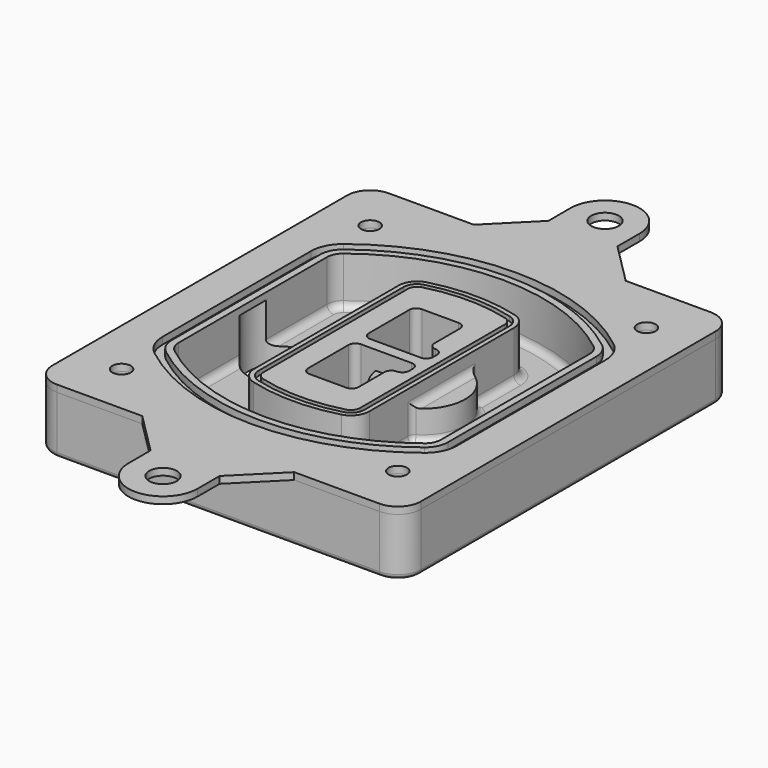
from build123d import *

# Parameters (mm, degrees)
F0_R      = 4
F1_DEPTH  = 25
F2_DEPTH  = 3
F3_DEPTH  = 18
F5_DEPTH  = 21
F6_DEPTH  = 2
F8_DEPTH  = 20
F9_DEPTH  = 16
F10_DEPTH = 25
F7_R      = 6
F7_R_2    = 4
F11_DEPTH = 6
F13_DEPTH = 9
F14_R     = 3
F15_R     = 2
F0_R_2    = 6
F16_DEPTH = 3


with BuildPart() as f1:
    # F0 (on Top) → F1 (new body)
    with BuildSketch(Plane.XY):
        with BuildLine():
            ThreePointArc((-80, -80), (-77.0710678119, -87.0710678119), (-70, -90))
            Line((-70, -90), (-33, -90))
            Line((-33, -90), (33, -90))
            Line((33, -90), (70, -90))
            ThreePointArc((70, -90), (77.0710678119, -87.0710678119), (80, -80))
            Line((80, -80), (80, 80))
            ThreePointArc((80, 80), (77.0710678119, 87.0710678119), (70, 90))
            Line((70, 90), (33, 90))
            Line((33, 90), (-33, 90))
            Line((-33, 90), (-70, 90))
            ThreePointArc((-70, 90), (-77.0710678119, 87.0710678119), (-80, 80))
            Line((-80, 80), (-80, -80))
        make_face()
        with Locations((-60, -67.5)):
            Circle(F0_R, mode=Mode.SUBTRACT)
        with Locations((60, -67.5)):
            Circle(F0_R, mode=Mode.SUBTRACT)
        with Locations((-60, 67.5)):
            Circle(F0_R, mode=Mode.SUBTRACT)
        with BuildLine():
            ThreePointArc((-64, 40.2934422872), (-62.5820384798, 46.4328484224), (-58.6153846154, 51.3286200352))
            ThreePointArc((-58.6153846154, 51.3286200352), (0, 71.5), (58.6153846154, 51.3286200352))
            ThreePointArc((58.6153846154, 51.3286200352), (62.5820384798, 46.4328484224), (64, 40.2934422872))
            Line((64, 40.2934422872), (64, -40.2934422872))
            ThreePointArc((64, -40.2934422872), (62.5820384798, -46.4328484224), (58.6153846154, -51.3286200352))
            ThreePointArc((58.6153846154, -51.3286200352), (0, -71.5), (-58.6153846154, -51.3286200352))
            ThreePointArc((-58.6153846154, -51.3286200352), (-62.5820384798, -46.4328484224), (-64, -40.2934422872))
            Line((-64, -40.2934422872), (-64, 40.2934422872))
        make_face(mode=Mode.SUBTRACT)
        with Locations((60, 67.5)):
            Circle(F0_R, mode=Mode.SUBTRACT)
        with BuildLine():
            ThreePointArc((58.6153846154, 51.3286200352), (0, 71.5), (-58.6153846154, 51.3286200352))
            ThreePointArc((-58.6153846154, 51.3286200352), (-62.5820384798, 46.4328484224), (-64, 40.2934422872))
            Line((-64, 40.2934422872), (-64, -40.2934422872))
            ThreePointArc((-64, -40.2934422872), (-62.5820384798, -46.4328484224), (-58.6153846154, -51.3286200352))
            ThreePointArc((-58.6153846154, -51.3286200352), (0, -71.5), (58.6153846154, -51.3286200352))
            ThreePointArc((58.6153846154, -51.3286200352), (62.5820384798, -46.4328484224), (64, -40.2934422872))
            Line((64, -40.2934422872), (64, 40.2934422872))
            ThreePointArc((64, 40.2934422872), (62.5820384798, 46.4328484224), (58.6153846154, 51.3286200352))
        make_face()
        with BuildLine():
            Line((-60, -40.2934422872), (-60, 40.2934422872))
            ThreePointArc((-60, 40.2934422872), (-58.9871703427, 44.6787323838), (-56.1538461538, 48.1757121072))
            ThreePointArc((-56.1538461538, 48.1757121072), (0, 67.5), (56.1538461538, 48.1757121072))
            ThreePointArc((56.1538461538, 48.1757121072), (58.9871703427, 44.6787323838), (60, 40.2934422872))
            Line((60, 40.2934422872), (60, -40.2934422872))
            ThreePointArc((60, -40.2934422872), (58.9871703427, -44.6787323838), (56.1538461538, -48.1757121072))
            ThreePointArc((56.1538461538, -48.1757121072), (0, -67.5), (-56.1538461538, -48.1757121072))
            ThreePointArc((-56.1538461538, -48.1757121072), (-58.9871703427, -44.6787323838), (-60, -40.2934422872))
        make_face(mode=Mode.SUBTRACT)
        with BuildLine():
            ThreePointArc((-56.1538461538, 48.1757121072), (-58.9871703427, 44.6787323838), (-60, 40.2934422872))
            Line((-60, 40.2934422872), (-60, -40.2934422872))
            ThreePointArc((-60, -40.2934422872), (-58.9871703427, -44.6787323838), (-56.1538461538, -48.1757121072))
            ThreePointArc((-56.1538461538, -48.1757121072), (0, -67.5), (56.1538461538, -48.1757121072))
            ThreePointArc((56.1538461538, -48.1757121072), (58.9871703427, -44.6787323838), (60, -40.2934422872))
            Line((60, -40.2934422872), (60, 40.2934422872))
            ThreePointArc((60, 40.2934422872), (58.9871703427, 44.6787323838), (56.1538461538, 48.1757121072))
            ThreePointArc((56.1538461538, 48.1757121072), (0, 67.5), (-56.1538461538, 48.1757121072))
        make_face()
        with BuildLine():
            ThreePointArc((54.3076923077, 45.8110311612), (56.2910192399, 43.3631453548), (57, 40.2934422872))
            Line((57, 40.2934422872), (57, -40.2934422872))
            ThreePointArc((57, -40.2934422872), (56.2910192399, -43.3631453548), (54.3076923077, -45.8110311612))
            ThreePointArc((54.3076923077, -45.8110311612), (0, -64.5), (-54.3076923077, -45.8110311612))
            ThreePointArc((-54.3076923077, -45.8110311612), (-56.2910192399, -43.3631453548), (-57, -40.2934422872))
            Line((-57, -40.2934422872), (-57, 40.2934422872))
            ThreePointArc((-57, 40.2934422872), (-56.2910192399, 43.3631453548), (-54.3076923077, 45.8110311612))
            ThreePointArc((-54.3076923077, 45.8110311612), (0, 64.5), (54.3076923077, 45.8110311612))
        make_face(mode=Mode.SUBTRACT)
        with BuildLine():
            Line((57, -40.2934422872), (57, 40.2934422872))
            ThreePointArc((57, 40.2934422872), (56.2910192399, 43.3631453548), (54.3076923077, 45.8110311612))
            ThreePointArc((54.3076923077, 45.8110311612), (0, 64.5), (-54.3076923077, 45.8110311612))
            ThreePointArc((-54.3076923077, 45.8110311612), (-56.2910192399, 43.3631453548), (-57, 40.2934422872))
            Line((-57, 40.2934422872), (-57, -40.2934422872))
            ThreePointArc((-57, -40.2934422872), (-56.2910192399, -43.3631453548), (-54.3076923077, -45.8110311612))
            ThreePointArc((-54.3076923077, -45.8110311612), (0, -64.5), (54.3076923077, -45.8110311612))
            ThreePointArc((54.3076923077, -45.8110311612), (56.2910192399, -43.3631453548), (57, -40.2934422872))
        make_face()
    extrude(amount=-F1_DEPTH)

    # F0 (on Top) → F2 (join)
    with BuildSketch(Plane.XY):
        with BuildLine():
            ThreePointArc((-56.1538461538, 48.1757121072), (-58.9871703427, 44.6787323838), (-60, 40.2934422872))
            Line((-60, 40.2934422872), (-60, -40.2934422872))
            ThreePointArc((-60, -40.2934422872), (-58.9871703427, -44.6787323838), (-56.1538461538, -48.1757121072))
            ThreePointArc((-56.1538461538, -48.1757121072), (0, -67.5), (56.1538461538, -48.1757121072))
            ThreePointArc((56.1538461538, -48.1757121072), (58.9871703427, -44.6787323838), (60, -40.2934422872))
            Line((60, -40.2934422872), (60, 40.2934422872))
            ThreePointArc((60, 40.2934422872), (58.9871703427, 44.6787323838), (56.1538461538, 48.1757121072))
            ThreePointArc((56.1538461538, 48.1757121072), (0, 67.5), (-56.1538461538, 48.1757121072))
        make_face()
        with BuildLine():
            ThreePointArc((54.3076923077, 45.8110311612), (56.2910192399, 43.3631453548), (57, 40.2934422872))
            Line((57, 40.2934422872), (57, -40.2934422872))
            ThreePointArc((57, -40.2934422872), (56.2910192399, -43.3631453548), (54.3076923077, -45.8110311612))
            ThreePointArc((54.3076923077, -45.8110311612), (0, -64.5), (-54.3076923077, -45.8110311612))
            ThreePointArc((-54.3076923077, -45.8110311612), (-56.2910192399, -43.3631453548), (-57, -40.2934422872))
            Line((-57, -40.2934422872), (-57, 40.2934422872))
            ThreePointArc((-57, 40.2934422872), (-56.2910192399, 43.3631453548), (-54.3076923077, 45.8110311612))
            ThreePointArc((-54.3076923077, 45.8110311612), (0, 64.5), (54.3076923077, 45.8110311612))
        make_face(mode=Mode.SUBTRACT)
    extrude(amount=F2_DEPTH)

    # F0 (on Top) → F3 (cut)
    with BuildSketch(Plane.XY):
        with BuildLine():
            Line((57, -40.2934422872), (57, 40.2934422872))
            ThreePointArc((57, 40.2934422872), (56.2910192399, 43.3631453548), (54.3076923077, 45.8110311612))
            ThreePointArc((54.3076923077, 45.8110311612), (0, 64.5), (-54.3076923077, 45.8110311612))
            ThreePointArc((-54.3076923077, 45.8110311612), (-56.2910192399, 43.3631453548), (-57, 40.2934422872))
            Line((-57, 40.2934422872), (-57, -40.2934422872))
            ThreePointArc((-57, -40.2934422872), (-56.2910192399, -43.3631453548), (-54.3076923077, -45.8110311612))
            ThreePointArc((-54.3076923077, -45.8110311612), (0, -64.5), (54.3076923077, -45.8110311612))
            ThreePointArc((54.3076923077, -45.8110311612), (56.2910192399, -43.3631453548), (57, -40.2934422872))
        make_face()
    extrude(amount=-F3_DEPTH, mode=Mode.SUBTRACT)

    # F4 (on face) → F5 (join, through all)
    with BuildSketch(Plane.XY.offset(3)):
        with BuildLine():
            ThreePointArc((-25, -39.2465276821), (-23.3511545998, -44.1109737193), (-19.0842911877, -46.9702398883))
            ThreePointArc((-19.0842911877, -46.9702398883), (0, -49.5), (19.0842911877, -46.9702398883))
            ThreePointArc((19.0842911877, -46.9702398883), (23.3511545998, -44.1109737193), (25, -39.2465276821))
            Line((25, -39.2465276821), (25, 39.2465276821))
            ThreePointArc((25, 39.2465276821), (23.3511545998, 44.1109737193), (19.0842911877, 46.9702398883))
            ThreePointArc((19.0842911877, 46.9702398883), (0, 49.5), (-19.0842911877, 46.9702398883))
            ThreePointArc((-19.0842911877, 46.9702398883), (-23.3511545998, 44.1109737193), (-25, 39.2465276821))
            Line((-25, 39.2465276821), (-25, -39.2465276821))
        make_face()
        with BuildLine():
            ThreePointArc((18.5632183908, 45.0393118368), (21.7633659499, 42.89486221), (23, 39.2465276821))
            Line((23, 39.2465276821), (23, -39.2465276821))
            ThreePointArc((23, -39.2465276821), (21.7633659499, -42.89486221), (18.5632183908, -45.0393118368))
            ThreePointArc((18.5632183908, -45.0393118368), (0, -47.5), (-18.5632183908, -45.0393118368))
            ThreePointArc((-18.5632183908, -45.0393118368), (-21.7633659499, -42.89486221), (-23, -39.2465276821))
            Line((-23, -39.2465276821), (-23, 39.2465276821))
            ThreePointArc((-23, 39.2465276821), (-21.7633659499, 42.89486221), (-18.5632183908, 45.0393118368))
            ThreePointArc((-18.5632183908, 45.0393118368), (0, 47.5), (18.5632183908, 45.0393118368))
        make_face(mode=Mode.SUBTRACT)
        with BuildLine():
            Line((23, -39.2465276821), (23, 39.2465276821))
            ThreePointArc((23, 39.2465276821), (21.7633659499, 42.89486221), (18.5632183908, 45.0393118368))
            ThreePointArc((18.5632183908, 45.0393118368), (0, 47.5), (-18.5632183908, 45.0393118368))
            ThreePointArc((-18.5632183908, 45.0393118368), (-21.7633659499, 42.89486221), (-23, 39.2465276821))
            Line((-23, 39.2465276821), (-23, -39.2465276821))
            ThreePointArc((-23, -39.2465276821), (-21.7633659499, -42.89486221), (-18.5632183908, -45.0393118368))
            ThreePointArc((-18.5632183908, -45.0393118368), (0, -47.5), (18.5632183908, -45.0393118368))
            ThreePointArc((18.5632183908, -45.0393118368), (21.7633659499, -42.89486221), (23, -39.2465276821))
        make_face()
        with BuildLine():
            ThreePointArc((18.0421455939, 43.1083837852), (20.1755772999, 41.6787507007), (21, 39.2465276821))
            Line((21, 39.2465276821), (21, -39.2465276821))
            ThreePointArc((21, -39.2465276821), (20.1755772999, -41.6787507007), (18.0421455939, -43.1083837852))
            ThreePointArc((18.0421455939, -43.1083837852), (0, -45.5), (-18.0421455939, -43.1083837852))
            ThreePointArc((-18.0421455939, -43.1083837852), (-20.1755772999, -41.6787507007), (-21, -39.2465276821))
            Line((-21, -39.2465276821), (-21, 39.2465276821))
            ThreePointArc((-21, 39.2465276821), (-20.1755772999, 41.6787507007), (-18.0421455939, 43.1083837852))
            ThreePointArc((-18.0421455939, 43.1083837852), (0, 45.5), (18.0421455939, 43.1083837852))
        make_face(mode=Mode.SUBTRACT)
        with BuildLine():
            Line((21, -39.2465276821), (21, 39.2465276821))
            ThreePointArc((21, 39.2465276821), (20.1755772999, 41.6787507007), (18.0421455939, 43.1083837852))
            ThreePointArc((18.0421455939, 43.1083837852), (0, 45.5), (-18.0421455939, 43.1083837852))
            ThreePointArc((-18.0421455939, 43.1083837852), (-20.1755772999, 41.6787507007), (-21, 39.2465276821))
            Line((-21, 39.2465276821), (-21, -39.2465276821))
            ThreePointArc((-21, -39.2465276821), (-20.1755772999, -41.6787507007), (-18.0421455939, -43.1083837852))
            ThreePointArc((-18.0421455939, -43.1083837852), (0, -45.5), (18.0421455939, -43.1083837852))
            ThreePointArc((18.0421455939, -43.1083837852), (20.1755772999, -41.6787507007), (21, -39.2465276821))
        make_face()
        with BuildLine():
            Line((-8, -2.5), (14, -2.5))
            ThreePointArc((14, -2.5), (16.1213203436, -3.3786796564), (17, -5.5))
            Line((17, -5.5), (17, -7.5))
            ThreePointArc((17, -7.5), (16.1213203436, -9.6213203436), (14, -10.5))
            ThreePointArc((14, -10.5), (11.8786796564, -11.3786796564), (11, -13.5))
            Line((11, -13.5), (11, -27.5))
            ThreePointArc((11, -27.5), (10.1213203436, -29.6213203436), (8, -30.5))
            Line((8, -30.5), (-8, -30.5))
            ThreePointArc((-8, -30.5), (-10.1213203436, -29.6213203436), (-11, -27.5))
            Line((-11, -27.5), (-11, -5.5))
            ThreePointArc((-11, -5.5), (-10.1213203436, -3.3786796564), (-8, -2.5))
        make_face(mode=Mode.SUBTRACT)
        with BuildLine():
            ThreePointArc((-8, 2.5), (-10.1213203436, 3.3786796564), (-11, 5.5))
            Line((-11, 5.5), (-11, 27.5))
            ThreePointArc((-11, 27.5), (-10.1213203436, 29.6213203436), (-8, 30.5))
            Line((-8, 30.5), (8, 30.5))
            ThreePointArc((8, 30.5), (10.1213203436, 29.6213203436), (11, 27.5))
            Line((11, 27.5), (11, 13.5))
            ThreePointArc((11, 13.5), (11.8786796564, 11.3786796564), (14, 10.5))
            ThreePointArc((14, 10.5), (16.1213203436, 9.6213203436), (17, 7.5))
            Line((17, 7.5), (17, 5.5))
            ThreePointArc((17, 5.5), (16.1213203436, 3.3786796564), (14, 2.5))
            Line((14, 2.5), (-8, 2.5))
        make_face(mode=Mode.SUBTRACT)
    extrude(amount=-F5_DEPTH)

    # F4 (on face) → F6 (cut)
    with BuildSketch(Plane.XY.offset(3)):
        with BuildLine():
            Line((23, -39.2465276821), (23, 39.2465276821))
            ThreePointArc((23, 39.2465276821), (21.7633659499, 42.89486221), (18.5632183908, 45.0393118368))
            ThreePointArc((18.5632183908, 45.0393118368), (0, 47.5), (-18.5632183908, 45.0393118368))
            ThreePointArc((-18.5632183908, 45.0393118368), (-21.7633659499, 42.89486221), (-23, 39.2465276821))
            Line((-23, 39.2465276821), (-23, -39.2465276821))
            ThreePointArc((-23, -39.2465276821), (-21.7633659499, -42.89486221), (-18.5632183908, -45.0393118368))
            ThreePointArc((-18.5632183908, -45.0393118368), (0, -47.5), (18.5632183908, -45.0393118368))
            ThreePointArc((18.5632183908, -45.0393118368), (21.7633659499, -42.89486221), (23, -39.2465276821))
        make_face()
        with BuildLine():
            ThreePointArc((18.0421455939, 43.1083837852), (20.1755772999, 41.6787507007), (21, 39.2465276821))
            Line((21, 39.2465276821), (21, -39.2465276821))
            ThreePointArc((21, -39.2465276821), (20.1755772999, -41.6787507007), (18.0421455939, -43.1083837852))
            ThreePointArc((18.0421455939, -43.1083837852), (0, -45.5), (-18.0421455939, -43.1083837852))
            ThreePointArc((-18.0421455939, -43.1083837852), (-20.1755772999, -41.6787507007), (-21, -39.2465276821))
            Line((-21, -39.2465276821), (-21, 39.2465276821))
            ThreePointArc((-21, 39.2465276821), (-20.1755772999, 41.6787507007), (-18.0421455939, 43.1083837852))
            ThreePointArc((-18.0421455939, 43.1083837852), (0, 45.5), (18.0421455939, 43.1083837852))
        make_face(mode=Mode.SUBTRACT)
    extrude(amount=-F6_DEPTH, mode=Mode.SUBTRACT)

    # F7 (on face) → F8 (join)
    with BuildSketch(Plane(origin=(0, 0, -25), x_dir=(1, 0, 0), z_dir=(0, 0, -1))):
        with BuildLine():
            ThreePointArc((3.28842436, 0), (16.7567035675, 13.4682792075), (30.224982775, 0))
            Line((30.224982775, 0), (35.224982775, 0))
            ThreePointArc((35.224982775, 0), (16.7567035675, 18.4682792075), (-1.71157564, 0))
            Line((-1.71157564, 0), (3.28842436, 0))
        make_face()
        with BuildLine():
            Line((3.28842436, 0), (30.224982775, 0))
            ThreePointArc((30.224982775, 0), (16.7567035675, 13.4682792075), (3.28842436, 0))
        make_face()
        with BuildLine():
            ThreePointArc((3.28842436, 0), (16.7567035675, -13.4682792075), (30.224982775, 0))
            Line((30.224982775, 0), (3.28842436, 0))
        make_face()
        with BuildLine():
            Line((35.224982775, 0), (30.224982775, 0))
            ThreePointArc((30.224982775, 0), (16.7567035675, -13.4682792075), (3.28842436, 0))
            Line((3.28842436, 0), (-1.71157564, 0))
            ThreePointArc((-1.71157564, 0), (16.7567035675, -18.4682792075), (35.224982775, 0))
        make_face()
    extrude(amount=-F8_DEPTH)

    # F7 (on face) → F9 (cut)
    with BuildSketch(Plane(origin=(0, 0, -25), x_dir=(1, 0, 0), z_dir=(0, 0, -1))):
        with BuildLine():
            Line((3.28842436, 0), (30.224982775, 0))
            ThreePointArc((30.224982775, 0), (16.7567035675, 13.4682792075), (3.28842436, 0))
        make_face()
        with BuildLine():
            ThreePointArc((3.28842436, 0), (16.7567035675, -13.4682792075), (30.224982775, 0))
            Line((30.224982775, 0), (3.28842436, 0))
        make_face()
    extrude(amount=-F9_DEPTH, mode=Mode.SUBTRACT)

    # F7 (on face) → F10 (cut)
    with BuildSketch(Plane(origin=(0, 0, -25), x_dir=(1, 0, 0), z_dir=(0, 0, -1))):
        with BuildLine():
            Line((-59.0318229325, 0), (-32.0952645175, 0))
            ThreePointArc((-32.0952645175, 0), (-45.563543725, 13.4682792075), (-59.0318229325, 0))
        make_face()
        with BuildLine():
            ThreePointArc((-59.0318229325, 0), (-45.563543725, -13.4682792075), (-32.0952645175, 0))
            Line((-32.0952645175, 0), (-59.0318229325, 0))
        make_face()
    extrude(amount=-F10_DEPTH, mode=Mode.SUBTRACT)

    # F7 (on face) → F11 (cut)
    with BuildSketch(Plane(origin=(0, 0, -25), x_dir=(1, 0, 0), z_dir=(0, 0, -1))):
        with Locations((60, -67.5)):
            Circle(F7_R)
        with Locations((60, -67.5)):
            Circle(F7_R_2, mode=Mode.SUBTRACT)
        with Locations((60, -67.5)):
            Circle(F7_R)
        with Locations((60, -67.5)):
            Circle(F7_R_2, mode=Mode.SUBTRACT)
        with Locations((-60, -67.5)):
            Circle(F7_R)
        with Locations((-60, -67.5)):
            Circle(F7_R_2, mode=Mode.SUBTRACT)
        with Locations((-60, -67.5)):
            Circle(F7_R)
        with Locations((-60, -67.5)):
            Circle(F7_R_2, mode=Mode.SUBTRACT)
        with Locations((-60, 67.5)):
            Circle(F7_R)
        with Locations((-60, 67.5)):
            Circle(F7_R_2, mode=Mode.SUBTRACT)
        with Locations((-60, 67.5)):
            Circle(F7_R)
        with Locations((-60, 67.5)):
            Circle(F7_R_2, mode=Mode.SUBTRACT)
        with Locations((60, 67.5)):
            Circle(F7_R)
        with Locations((60, 67.5)):
            Circle(F7_R_2, mode=Mode.SUBTRACT)
        with Locations((60, 67.5)):
            Circle(F7_R)
        with Locations((60, 67.5)):
            Circle(F7_R_2, mode=Mode.SUBTRACT)
    extrude(amount=-F11_DEPTH, mode=Mode.SUBTRACT)

    # F12 (on face) → F13 (cut, through all)
    with BuildSketch(Plane(origin=(0, 0, -9), x_dir=(1, 0, 0), z_dir=(0, 0, -1))):
        with BuildLine():
            Line((11, 13.5), (11, 17.5481537753))
            ThreePointArc((11, 17.5481537753), (2.5696536419, 11.8239143813), (-1.5415842455, 2.5))
            Line((-1.5415842455, 2.5), (3.5224848595, 2.5))
            ThreePointArc((3.5224848595, 2.5), (6.1857188154, 8.3455872281), (11.2536447004, 12.2927168648))
            ThreePointArc((11.2536447004, 12.2927168648), (11.0640958889, 12.8831798879), (11, 13.5))
        make_face()
        with BuildLine():
            ThreePointArc((11.2536447004, -12.2927168648), (6.1857188154, -8.3455872281), (3.5224848595, -2.5))
            Line((3.5224848595, -2.5), (-1.5415842455, -2.5))
            ThreePointArc((-1.5415842455, -2.5), (2.5696536419, -11.8239143813), (11, -17.5481537753))
            Line((11, -17.5481537753), (11, -13.5))
            ThreePointArc((11, -13.5), (11.0640958889, -12.8831798879), (11.2536447004, -12.2927168648))
        make_face()
        with BuildLine():
            ThreePointArc((11.2536447004, 12.2927168648), (6.1857188154, 8.3455872281), (3.5224848595, 2.5))
            Line((3.5224848595, 2.5), (14, 2.5))
            ThreePointArc((14, 2.5), (16.1213203436, 3.3786796564), (17, 5.5))
            Line((17, 5.5), (17, 7.5))
            ThreePointArc((17, 7.5), (16.1213203436, 9.6213203436), (14, 10.5))
            ThreePointArc((14, 10.5), (12.3601599782, 10.9878446101), (11.2536447004, 12.2927168648))
        make_face()
        with BuildLine():
            Line((14, -2.5), (3.5224848595, -2.5))
            ThreePointArc((3.5224848595, -2.5), (6.1857188154, -8.3455872281), (11.2536447004, -12.2927168648))
            ThreePointArc((11.2536447004, -12.2927168648), (12.3601599782, -10.9878446101), (14, -10.5))
            ThreePointArc((14, -10.5), (16.1213203436, -9.6213203436), (17, -7.5))
            Line((17, -7.5), (17, -5.5))
            ThreePointArc((17, -5.5), (16.1213203436, -3.3786796564), (14, -2.5))
        make_face()
    extrude(amount=F13_DEPTH, mode=Mode.SUBTRACT)

    # F14
    f14_edges = [f1.edges().sort_by_distance(p)[0] for p in [
        (-57, -23.703476, -18),
        (-57, 23.703476, -18),
        (25, 0, -5),
        (25, 16.526506, -11.5),
        (25, -16.526506, -11.5),
        (25, -27.886517, -18),
        (35.224983, 0, -18),
    ]]
    fillet(f14_edges, radius=F14_R)

    # F15
    f15_edges = [f1.edges().sort_by_distance(p)[0] for p in [
        (0, -90, -25),
    ]]
    fillet(f15_edges, radius=F15_R)


with BuildPart() as f16:
    # F0 (on Top) → F16 (new body, through all)
    with BuildSketch(Plane.XY):
        with BuildLine():
            ThreePointArc((-80, -80), (-77.0710678119, -87.0710678119), (-70, -90))
            Line((-70, -90), (-33, -90))
            Line((-33, -90), (33, -90))
            Line((33, -90), (70, -90))
            ThreePointArc((70, -90), (77.0710678119, -87.0710678119), (80, -80))
            Line((80, -80), (80, 80))
            ThreePointArc((80, 80), (77.0710678119, 87.0710678119), (70, 90))
            Line((70, 90), (33, 90))
            Line((33, 90), (-33, 90))
            Line((-33, 90), (-70, 90))
            ThreePointArc((-70, 90), (-77.0710678119, 87.0710678119), (-80, 80))
            Line((-80, 80), (-80, -80))
        make_face()
        with Locations((-60, -67.5)):
            Circle(F0_R, mode=Mode.SUBTRACT)
        with Locations((60, -67.5)):
            Circle(F0_R, mode=Mode.SUBTRACT)
        with Locations((-60, 67.5)):
            Circle(F0_R, mode=Mode.SUBTRACT)
        with BuildLine():
            ThreePointArc((-64, 40.2934422872), (-62.5820384798, 46.4328484224), (-58.6153846154, 51.3286200352))
            ThreePointArc((-58.6153846154, 51.3286200352), (0, 71.5), (58.6153846154, 51.3286200352))
            ThreePointArc((58.6153846154, 51.3286200352), (62.5820384798, 46.4328484224), (64, 40.2934422872))
            Line((64, 40.2934422872), (64, -40.2934422872))
            ThreePointArc((64, -40.2934422872), (62.5820384798, -46.4328484224), (58.6153846154, -51.3286200352))
            ThreePointArc((58.6153846154, -51.3286200352), (0, -71.5), (-58.6153846154, -51.3286200352))
            ThreePointArc((-58.6153846154, -51.3286200352), (-62.5820384798, -46.4328484224), (-64, -40.2934422872))
            Line((-64, -40.2934422872), (-64, 40.2934422872))
        make_face(mode=Mode.SUBTRACT)
        with Locations((60, 67.5)):
            Circle(F0_R, mode=Mode.SUBTRACT)
        with BuildLine():
            Line((33, -90), (-33, -90))
            Line((-33, -90), (-15, -108))
            Line((-15, -108), (-15, -120))
            ThreePointArc((-15, -120), (0, -135), (15, -120))
            Line((15, -120), (15, -108))
            Line((15, -108), (33, -90))
        make_face()
        with Locations((0, -120)):
            Circle(F0_R_2, mode=Mode.SUBTRACT)
        with BuildLine():
            Line((-15, 108), (-33, 90))
            Line((-33, 90), (33, 90))
            Line((33, 90), (15, 108))
            Line((15, 108), (15, 120))
            ThreePointArc((15, 120), (0, 135), (-15, 120))
            Line((-15, 120), (-15, 108))
        make_face()
        with Locations((0, 120)):
            Circle(F0_R_2, mode=Mode.SUBTRACT)
    extrude(amount=F16_DEPTH)


solid = Compound([f1.part, f16.part])
